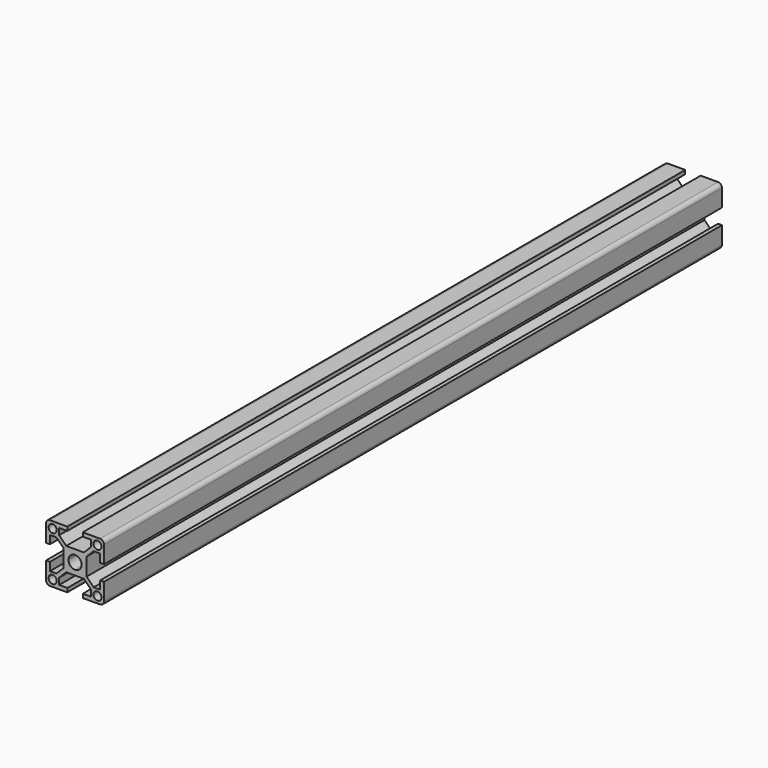
from build123d import *

# Parameters (mm, degrees)
F0_R     = 2.1
F1_DEPTH = 400


with BuildPart() as f1:
    # F0 (on Front) → F1 (new body)
    with BuildSketch(Plane.XZ):
        with BuildLine():
            Line((4.585786, 6), (0, 6))
            Line((0, 6), (-4.585786, 6))
            Line((-4.585786, 6), (-8.25, 9.664214))
            Line((-8.25, 9.664214), (-8.25, 13))
            Line((-8.25, 13), (-4, 13))
            Line((-4, 13), (-4, 15))
            Line((-4, 15), (-13, 15))
            ThreePointArc((-13, 15), (-14.414214, 14.414214), (-15, 13))
            Line((-15, 13), (-15, 4))
            Line((-15, 4), (-13, 4))
            Line((-13, 4), (-13, 8.25))
            Line((-13, 8.25), (-9.664214, 8.25))
            Line((-9.664214, 8.25), (-6, 4.585786))
            Line((-6, 4.585786), (-6, 0))
            Line((-6, 0), (-6, -4.585786))
            Line((-6, -4.585786), (-9.664214, -8.25))
            Line((-9.664214, -8.25), (-13, -8.25))
            Line((-13, -8.25), (-13, -4))
            Line((-13, -4), (-15, -4))
            Line((-15, -4), (-15, -13))
            ThreePointArc((-15, -13), (-14.414214, -14.414214), (-13, -15))
            Line((-13, -15), (-4, -15))
            Line((-4, -15), (-4, -13))
            Line((-4, -13), (-8.25, -13))
            Line((-8.25, -13), (-8.25, -9.664214))
            Line((-8.25, -9.664214), (-4.585786, -6))
            Line((-4.585786, -6), (0, -6))
            Line((0, -6), (4.585786, -6))
            Line((4.585786, -6), (8.25, -9.664214))
            Line((8.25, -9.664214), (8.25, -13))
            Line((8.25, -13), (4, -13))
            Line((4, -13), (4, -15))
            Line((4, -15), (13, -15))
            ThreePointArc((13, -15), (14.414214, -14.414214), (15, -13))
            Line((15, -13), (15, -4))
            Line((15, -4), (13, -4))
            Line((13, -4), (13, -8.25))
            Line((13, -8.25), (9.664214, -8.25))
            Line((9.664214, -8.25), (6, -4.585786))
            Line((6, -4.585786), (6, 0))
            Line((6, 0), (6, 4.585786))
            Line((6, 4.585786), (9.664214, 8.25))
            Line((9.664214, 8.25), (13, 8.25))
            Line((13, 8.25), (13, 4))
            Line((13, 4), (15, 4))
            Line((15, 4), (15, 13))
            ThreePointArc((15, 13), (14.414214, 14.414214), (13, 15))
            Line((13, 15), (4, 15))
            Line((4, 15), (4, 13))
            Line((4, 13), (8.25, 13))
            Line((8.25, 13), (8.25, 9.664214))
            Line((8.25, 9.664214), (4.585786, 6))
        make_face()
        with Locations((-11.6, -11.6)):
            Circle(F0_R, mode=Mode.SUBTRACT)
        with Locations((11.6, -11.6)):
            Circle(F0_R, mode=Mode.SUBTRACT)
        with Locations((-11.6, 11.6)):
            Circle(F0_R, mode=Mode.SUBTRACT)
        with BuildLine():
            ThreePointArc((-3.4, 0), (-2.404163, 2.404163), (0, 3.4))
            ThreePointArc((0, 3.4), (2.404163, 2.404163), (3.4, 0))
            ThreePointArc((3.4, 0), (2.404163, -2.404163), (0, -3.4))
            ThreePointArc((0, -3.4), (-2.404163, -2.404163), (-3.4, 0))
        make_face(mode=Mode.SUBTRACT)
        with Locations((11.6, 11.6)):
            Circle(F0_R, mode=Mode.SUBTRACT)
    extrude(amount=F1_DEPTH)


solid = f1.part
